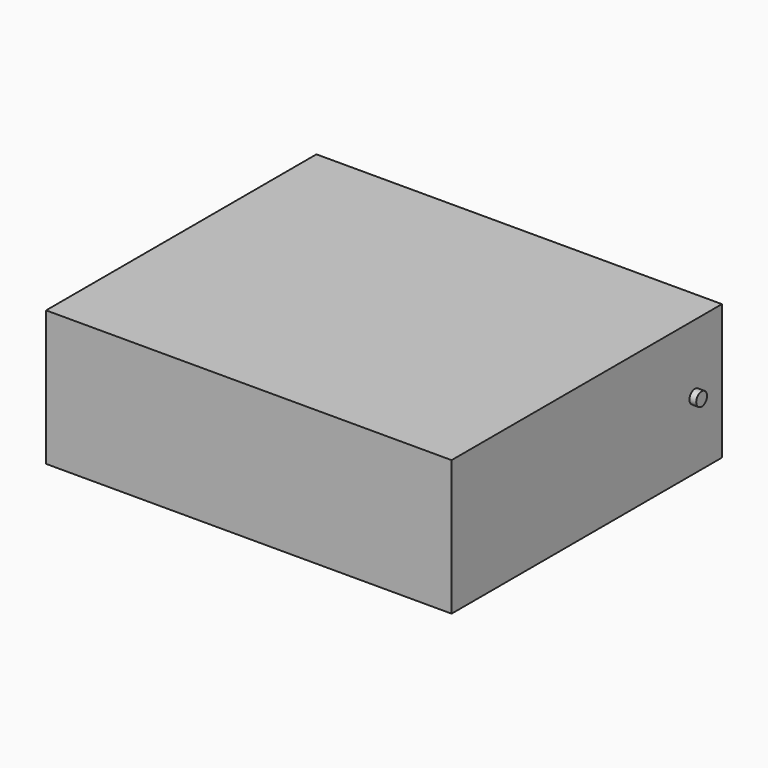
from build123d import *

# Parameters (mm, degrees)
F0_W      = 60
F0_H      = 50
F1_DEPTH  = 20
F2_R      = 1
F3_DEPTH  = 1
F3_FACE_R = 1
F4_DEPTH  = 62


with BuildPart() as f1:
    # F0 (on Top) → F1 (new body)
    with BuildSketch(Plane.XY):
        with Locations((30, -25)):
            Rectangle(F0_W, F0_H)
    extrude(amount=F1_DEPTH)

    # F2 (on face) → F3 (join)
    with BuildSketch(Plane.YZ.offset(60)):
        with Locations((-5, 10)):
            Circle(F2_R)
    extrude(amount=F3_DEPTH)

    # F3_face (on face) → F4 (join)
    with BuildSketch(Plane(origin=(61, -5, 10), x_dir=(0, 1, 0), z_dir=(1, 0, 0))):
        Circle(F3_FACE_R)
    extrude(amount=-F4_DEPTH)


solid = f1.part
